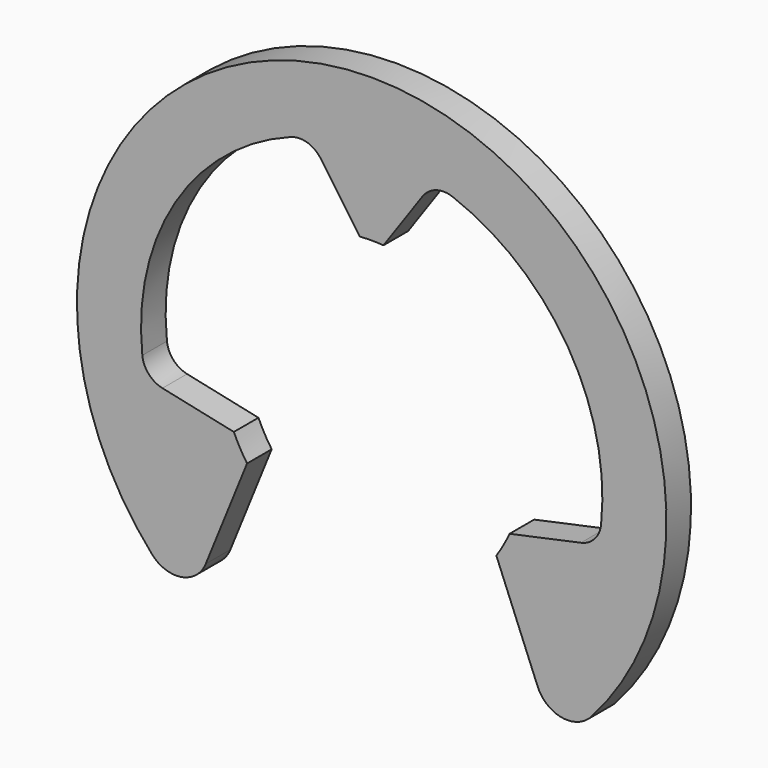
from build123d import *

# Parameters (mm, degrees)
SKETCH046_R     = 7.3025
SKETCH046_R_2   = 3.7465
PAD007_DEPTH    = 0.762
POCKET006_DEPTH = 0.763
FILLET004_R     = 0.79375
FILLET005_R     = 0.635


with BuildPart() as part:
    # Sketch046 → Pad007 (new body)
    with BuildSketch(Plane.XZ):
        Circle(SKETCH046_R)
        Circle(SKETCH046_R_2, mode=Mode.SUBTRACT)
    extrude(amount=PAD007_DEPTH)

    # Sketch047 (on Face4 of Pad007) → Pocket006 (cut, through all)
    with BuildSketch(Plane.XZ.offset(0.762)):
        with BuildLine():
            Line((-4.545908, -5.715), (-3.087808, -2.121721))
            Line((-3.087808, -2.121721), (-2.896797, -1.651))
            Line((-2.896797, -1.651), (-3.415378, -1.539953))
            Line((-3.415378, -1.539953), (-5.614107, -1.069124))
            ThreePointArc((-1.531348, 5.506015), (-4.855151, 3.014752), (-5.614107, -1.069124))
            Line((-0.291377, 3.735152), (-1.531348, 5.506015))
            Line((-0.291377, 3.735152), (0, 3.319023))
            Line((0, 3.319023), (0.291377, 3.735152))
            Line((0.291377, 3.735152), (1.531348, 5.506015))
            ThreePointArc((5.614107, -1.069124), (4.855151, 3.014752), (1.531348, 5.506015))
            Line((3.415378, -1.539953), (5.614107, -1.069124))
            Line((3.415378, -1.539953), (2.896797, -1.651))
            Line((2.896797, -1.651), (3.087808, -2.121721))
            Line((4.545908, -5.715), (3.087808, -2.121721))
            Line((4.545908, -5.715), (5.040156, -5.715))
            ThreePointArc((-5.040156, -5.715), (0, -7.62), (5.040156, -5.715))
            Line((-4.545908, -5.715), (-5.040156, -5.715))
        make_face()
    extrude(amount=-POCKET006_DEPTH, mode=Mode.SUBTRACT)

    # Fillet004
    fillet004_edges = [part.edges().sort_by_distance(p)[0] for p in [
        (-4.545908, -0.381, -5.715),
        (4.545908, -0.381, -5.715),
    ]]
    fillet(fillet004_edges, radius=FILLET004_R)

    # Fillet005
    fillet005_edges = [part.edges().sort_by_distance(p)[0] for p in [
        (-5.614107, -0.381, -1.069124),
        (5.614107, -0.381, -1.069124),
        (-1.531348, -0.381, 5.506015),
        (1.531348, -0.381, 5.506015),
    ]]
    fillet(fillet005_edges, radius=FILLET005_R)


with BuildPart() as part_1:
    # Body005 placement: moved
    add(part.part.moved(Location((0, 45.2755, 0))))


solid = part_1.part
